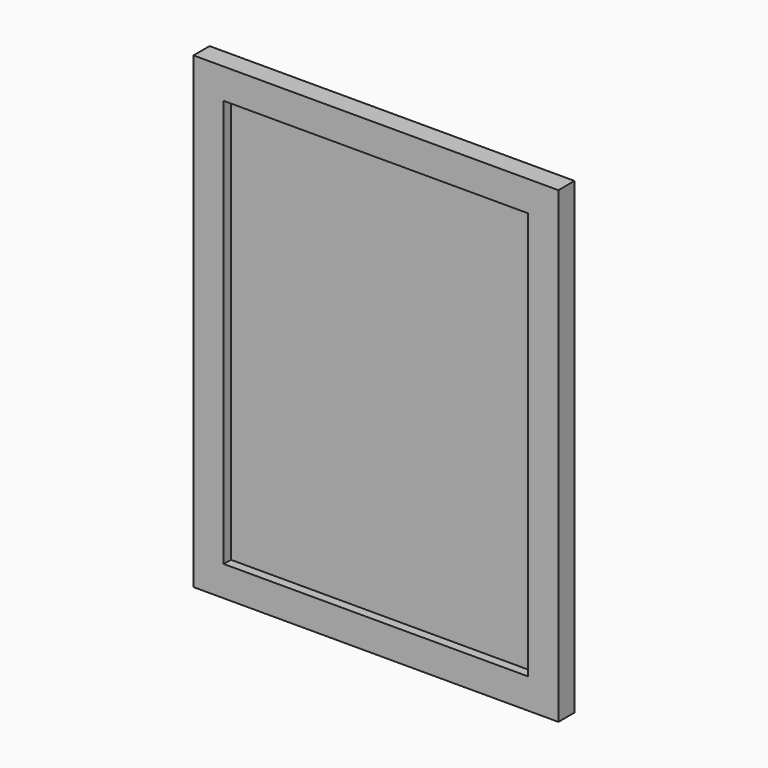
from build123d import *

# Parameters (mm, degrees)
F0_W     = 725
F0_H     = 930
F0_W_2   = 605
F0_H_2   = 810
F1_DEPTH = 20
F2_DEPTH = 2


with BuildPart() as f1:
    # F0 (on Front) → F1 (new body, symmetric)
    with BuildSketch(Plane.XZ):
        Rectangle(F0_W, F0_H)
        Rectangle(F0_W_2, F0_H_2, mode=Mode.SUBTRACT)
    extrude(amount=F1_DEPTH, both=True)

    # F0 (on Front) → F2 (join, symmetric)
    with BuildSketch(Plane.XZ):
        Rectangle(F0_W_2, F0_H_2)
    extrude(amount=F2_DEPTH, both=True)


solid = f1.part
